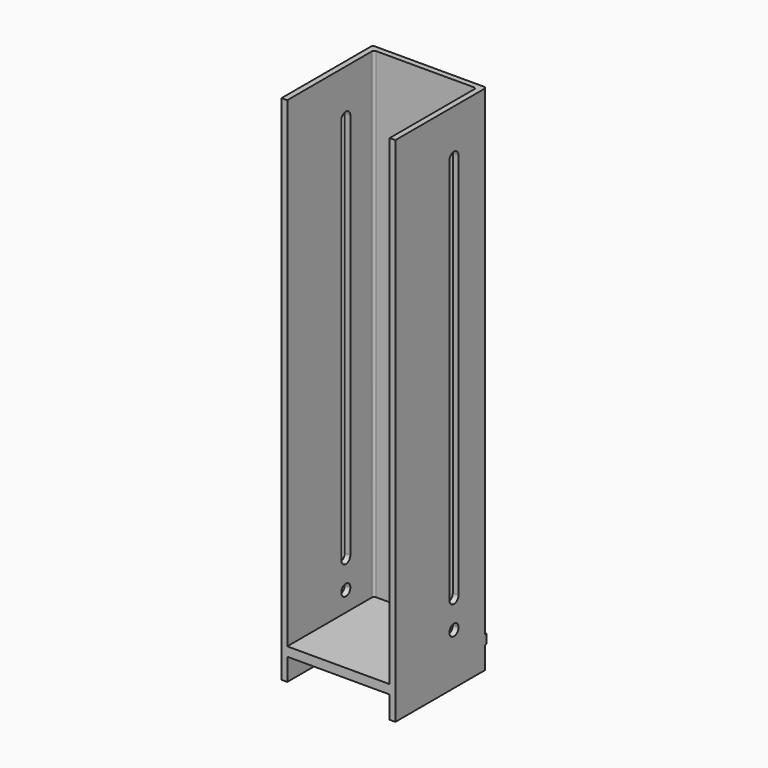
from build123d import *

# Parameters (mm, degrees)
F1_DEPTH = 225
F3_DEPTH = 60
F2_W     = 100
F2_H     = 8
F4_DEPTH = 50


with BuildPart() as f1:
    # F0 (on Top) → F1 (new body, symmetric)
    with BuildSketch(Plane.XY):
        with BuildLine():
            Line((-50, 28.660538), (-50, -69.339462))
            Line((-50, -69.339462), (-45, -69.339462))
            Line((-45, -69.339462), (-45, 23.660538))
            ThreePointArc((-45, 23.660538), (-44.414214, 25.074752), (-43, 25.660538))
            Line((-43, 25.660538), (43, 25.660538))
            ThreePointArc((43, 25.660538), (44.414214, 25.074752), (45, 23.660538))
            Line((45, 23.660538), (45, -69.339462))
            Line((45, -69.339462), (50, -69.339462))
            Line((50, -69.339462), (50, 28.660538))
            ThreePointArc((50, 28.660538), (49.414214, 30.074752), (48, 30.660538))
            Line((48, 30.660538), (-48, 30.660538))
            ThreePointArc((-48, 30.660538), (-49.414214, 30.074752), (-50, 28.660538))
        make_face()
    extrude(amount=F1_DEPTH, both=True)

    # F2 (on Right) → F3 (cut, symmetric)
    with BuildSketch(Plane.YZ):
        with BuildLine():
            Line((0, -155), (0, 185))
            ThreePointArc((0, 185), (-1.464466, 188.535534), (-5, 190))
            ThreePointArc((-5, 190), (-8.535534, 188.535534), (-10, 185))
            Line((-10, 185), (-10, -155))
            ThreePointArc((-10, -155), (-8.535534, -158.535534), (-5, -160))
            ThreePointArc((-5, -160), (-1.464466, -158.535534), (0, -155))
        make_face()
        with BuildLine():
            ThreePointArc((0, -180), (-1.464466, -176.464466), (-5, -175))
            ThreePointArc((-5, -175), (-8.535534, -183.535534), (0, -180))
        make_face()
    extrude(amount=F3_DEPTH, both=True, mode=Mode.SUBTRACT)

    # F2 (on Right) → F4 (join, symmetric)
    with BuildSketch(Plane.YZ):
        with Locations((-19.339462, -201.432384)):
            Rectangle(F2_W, F2_H)
    extrude(amount=F4_DEPTH, both=True)


solid = f1.part
